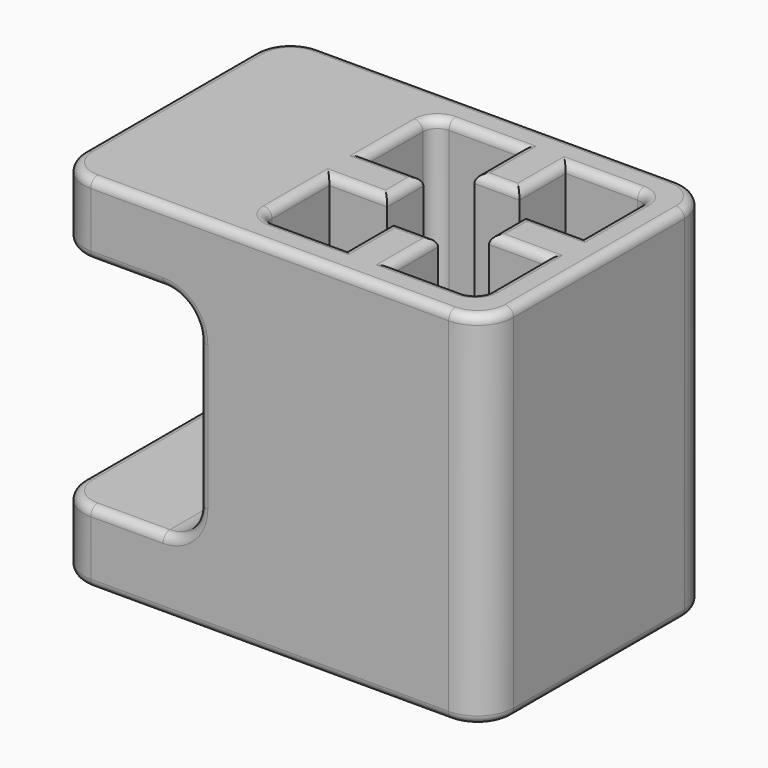
from build123d import *

# Parameters (mm, degrees)
F0_W     = 50.227
F0_H     = 50.227
F1_DEPTH = 63.5
F2_W     = 50.227
F2_H     = 12.7
F3_DEPTH = 25.4
F4_R     = 6.35
F5_R     = 1.524


with BuildPart() as f1:
    # F0 (on Top) → F1 (new body)
    with BuildSketch(Plane.XY):
        Rectangle(F0_W, F0_H)
        with BuildLine():
            ThreePointArc((19.1135, -16.5735), (18.3695512242, -18.3695512242), (16.5735, -19.1135))
            Line((16.5735, -19.1135), (3.96875, -19.1135))
            Line((3.96875, -19.1135), (3.96875, -8.9535))
            Line((3.96875, -8.9535), (-3.96875, -8.9535))
            Line((-3.96875, -8.9535), (-3.96875, -19.1135))
            Line((-3.96875, -19.1135), (-16.5735, -19.1135))
            ThreePointArc((-16.5735, -19.1135), (-18.3695512242, -18.3695512242), (-19.1135, -16.5735))
            Line((-19.1135, -16.5735), (-19.1135, -3.96875))
            Line((-19.1135, -3.96875), (-8.9535, -3.96875))
            Line((-8.9535, -3.96875), (-8.9535, 3.96875))
            Line((-8.9535, 3.96875), (-19.1135, 3.96875))
            Line((-19.1135, 3.96875), (-19.1135, 16.5735))
            ThreePointArc((-19.1135, 16.5735), (-18.3695512242, 18.3695512242), (-16.5735, 19.1135))
            Line((-16.5735, 19.1135), (-3.96875, 19.1135))
            Line((-3.96875, 19.1135), (-3.96875, 8.9535))
            Line((-3.96875, 8.9535), (0, 8.9535))
            Line((0, 8.9535), (3.96875, 8.9535))
            Line((3.96875, 8.9535), (3.96875, 19.1135))
            Line((3.96875, 19.1135), (16.5735, 19.1135))
            ThreePointArc((16.5735, 19.1135), (18.3695512242, 18.3695512242), (19.1135, 16.5735))
            Line((19.1135, 16.5735), (19.1135, 3.96875))
            Line((19.1135, 3.96875), (8.9535, 3.96875))
            Line((8.9535, 3.96875), (8.9535, -3.96875))
            Line((8.9535, -3.96875), (19.1135, -3.96875))
            Line((19.1135, -3.96875), (19.1135, -16.5735))
        make_face(mode=Mode.SUBTRACT)
    extrude(amount=F1_DEPTH)

    # F2 (on face) → F3 (join)
    with BuildSketch(Plane(origin=(-25.1135, 0, 0), x_dir=(0, -1, 0), z_dir=(-1, 0, 0))):
        with Locations((0, 6.35)):
            Rectangle(F2_W, F2_H)
        with Locations((0, 57.15)):
            Rectangle(F2_W, F2_H)
    extrude(amount=F3_DEPTH)

    # F4
    f4_edges = [f1.edges().sort_by_distance(p)[0] for p in [
        (-25.1135, 0, 12.7),
        (-25.1135, 0, 50.8),
        (-50.5135, -25.1135, 6.35),
        (-50.5135, 25.1135, 6.35),
        (-50.5135, 25.1135, 57.15),
        (-50.5135, -25.1135, 57.15),
        (25.1135, -25.1135, 31.75),
        (25.1135, 25.1135, 31.75),
    ]]
    fillet(f4_edges, radius=F4_R)

    # F5
    f5_edges = [f1.edges().sort_by_distance(p)[0] for p in [
        (25.1135, 0, 0),
        (23.253628, -23.253628, 0),
        (23.253628, 23.253628, 0),
        (-12.7, -25.1135, 0),
        (-12.7, 25.1135, 0),
        (-48.653628, -23.253628, 0),
        (-48.653628, 23.253628, 0),
        (-50.5135, 0, 0),
        (19.1135, 10.271125, 0),
        (14.0335, 3.96875, 0),
        (8.9535, 0, 0),
        (14.0335, -3.96875, 0),
        (19.1135, -10.271125, 0),
        (18.369551, -18.369551, 0),
        (10.271125, -19.1135, 0),
        (3.96875, -14.0335, 0),
        (0, -8.9535, 0),
        (-3.96875, -14.0335, 0),
        (-10.271125, -19.1135, 0),
        (-18.369551, -18.369551, 0),
        (-19.1135, -10.271125, 0),
        (-14.0335, -3.96875, 0),
        (-8.9535, 0, 0),
        (-14.0335, 3.96875, 0),
        (-19.1135, 10.271125, 0),
        (-18.369551, 18.369551, 0),
        (-10.271125, 19.1135, 0),
        (-3.96875, 14.0335, 0),
        (0, 8.9535, 0),
        (3.96875, 14.0335, 0),
        (10.271125, 19.1135, 0),
        (18.369551, 18.369551, 0),
        (-12.7, -25.1135, 63.5),
        (23.253628, -23.253628, 63.5),
        (-48.653628, -23.253628, 63.5),
        (25.1135, 0, 63.5),
        (-50.5135, 0, 63.5),
        (23.253628, 23.253628, 63.5),
        (-48.653628, 23.253628, 63.5),
        (-12.7, 25.1135, 63.5),
        (19.1135, 10.271125, 63.5),
        (14.0335, 3.96875, 63.5),
        (8.9535, 0, 63.5),
        (14.0335, -3.96875, 63.5),
        (19.1135, -10.271125, 63.5),
        (18.369551, -18.369551, 63.5),
        (10.271125, -19.1135, 63.5),
        (3.96875, -14.0335, 63.5),
        (0, -8.9535, 63.5),
        (-3.96875, -14.0335, 63.5),
        (-10.271125, -19.1135, 63.5),
        (-18.369551, -18.369551, 63.5),
        (-19.1135, -10.271125, 63.5),
        (-14.0335, -3.96875, 63.5),
        (-8.9535, 0, 63.5),
        (-14.0335, 3.96875, 63.5),
        (-19.1135, 10.271125, 63.5),
        (-18.369551, 18.369551, 63.5),
        (-10.271125, 19.1135, 63.5),
        (-3.96875, 14.0335, 63.5),
        (0, 8.9535, 63.5),
        (3.96875, 14.0335, 63.5),
        (10.271125, 19.1135, 63.5),
        (18.369551, 18.369551, 63.5),
        (-37.8135, 25.1135, 50.8),
        (-31.4635, 0, 50.8),
        (-48.653628, 23.253628, 50.8),
        (-37.8135, -25.1135, 50.8),
        (-50.5135, 0, 50.8),
        (-48.653628, -23.253628, 50.8),
        (-37.8135, -25.1135, 12.7),
        (-31.4635, 0, 12.7),
        (-48.653628, -23.253628, 12.7),
        (-37.8135, 25.1135, 12.7),
        (-50.5135, 0, 12.7),
        (-48.653628, 23.253628, 12.7),
    ]]
    fillet(f5_edges, radius=F5_R)


solid = f1.part
